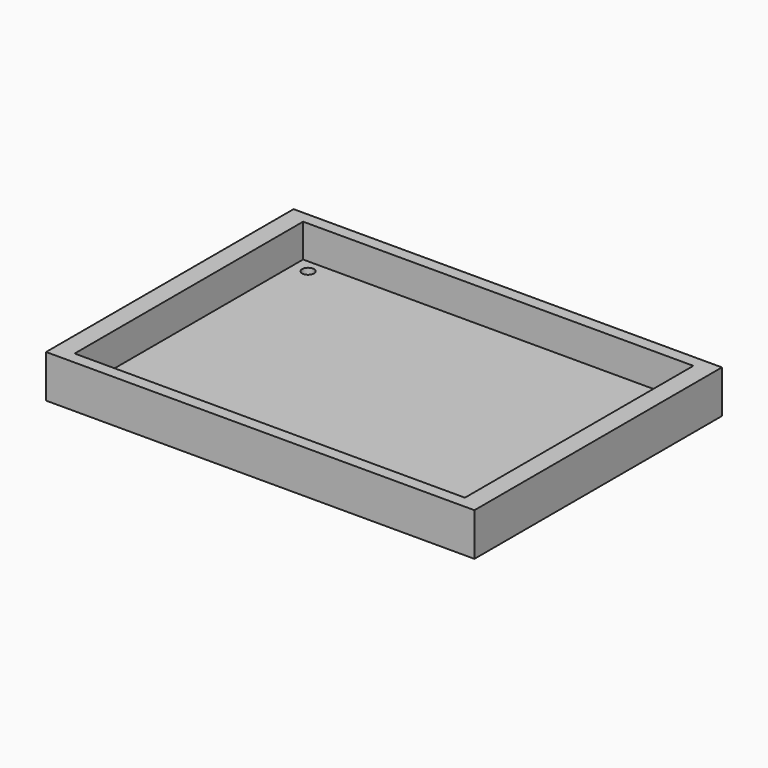
from build123d import *

# Parameters (mm, degrees)
F0_W     = 90
F0_H     = 65
F1_DEPTH = 9
F2_W     = 82
F2_H     = 60
F3_DEPTH = 7
F4_R     = 1.25
F5_DEPTH = 2.001


with BuildPart() as f1:
    # F0 (on Top) → F1 (new body)
    with BuildSketch(Plane.XY):
        with Locations((9.092046, 3.150626)):
            Rectangle(F0_W, F0_H)
    extrude(amount=F1_DEPTH)

    # F2 (on face) → F3 (cut)
    with BuildSketch(Plane.XY.offset(9)):
        with Locations((9.092046, 3.150626)):
            Rectangle(F2_W, F2_H)
    extrude(amount=-F3_DEPTH, mode=Mode.SUBTRACT)

    # F4 (on face) → F5 (cut, through all)
    with BuildSketch(Plane.XY.offset(2)):
        with Locations((-28.657954, 30.400626)):
            Circle(F4_R)
        with Locations((-28.657954, -24.099374)):
            Circle(F4_R)
    extrude(amount=-F5_DEPTH, mode=Mode.SUBTRACT)


solid = f1.part
